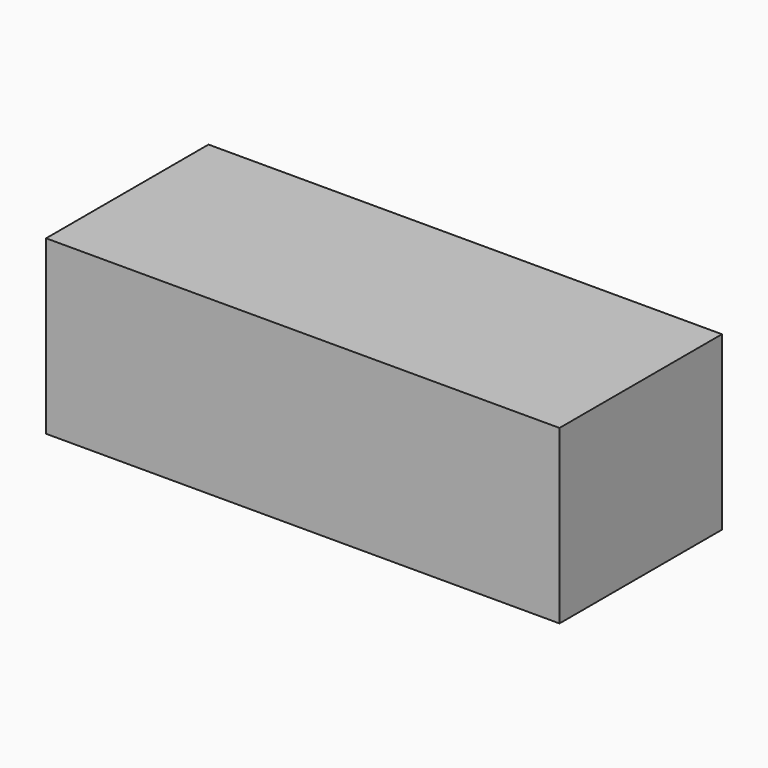
from build123d import *

# Parameters (mm, degrees)
SKETCH_W  = 29.831356
SKETCH_H  = 11.795124
PAD_DEPTH = 10


with BuildPart() as part:
    # Sketch → Pad (new body)
    with BuildSketch(Plane.XY):
        with Locations((2.347574, -0.715723)):
            Rectangle(SKETCH_W, SKETCH_H)
    extrude(amount=PAD_DEPTH)


solid = part.part
